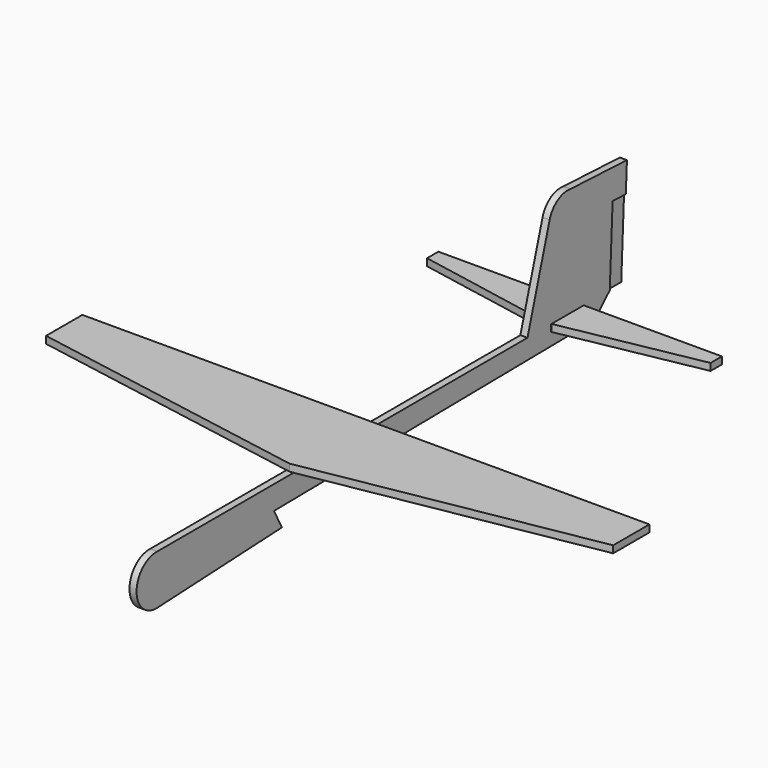
from build123d import *

# Parameters (mm, degrees)
F0_W     = 14.672339
F0_H     = 2.54
F1_DEPTH = 1.27
F4_DEPTH = 2.54
F5_DEPTH = 0.635
F8_DEPTH = 2.54


with BuildPart() as f1:
    # F0 (on Right) → F1 (new body)
    with BuildSketch(Plane.YZ):
        with BuildLine():
            Line((64.462766, 0), (-101.290224, 0))
            ThreePointArc((-101.290224, 0), (-110.614697, -8.89), (-101.290224, -17.78))
            Line((-101.290224, -17.78), (-45.523856, -15.118071))
            Line((-45.523856, -15.118071), (-49.073096, -8.463248))
            Line((-49.073096, -8.463248), (94.435051, -6.689185))
            Line((94.435051, -6.689185), (101.325884, 0))
            Line((101.325884, 0), (102.598335, 27.663734))
            Line((102.598335, 27.663734), (108.518737, 27.391413))
            Line((108.518737, 27.391413), (109.003847, 37.937972))
            Line((109.003847, 37.937972), (83.790082, 39.097731))
            ThreePointArc((83.790082, 39.097731), (77.988792, 37.886764), (74.406086, 33.165999))
            Line((74.406086, 33.165999), (64.462766, 0))
        make_face()
        with Locations((82.308821, -1.27)):
            Rectangle(F0_W, F0_H, mode=Mode.SUBTRACT)
    extrude(amount=F1_DEPTH)

    # F2: F1 across plane


with BuildPart() as f1_1:
    add(f1.part)
    add(f1.part.mirror(Plane.YZ))

    # F3 (on face) → F4 (join)
    with BuildSketch(Plane.XY):
        Polygon((101.6, -6.327709), (0, -6.327709), (-101.6, -6.327709), (-101.6, -22.567421), (0, -40.482242), (101.6, -22.567421), align=None)
    extrude(amount=F4_DEPTH)


with BuildPart() as f5:
    # F0 (on Right) → F5 (new body)
    with BuildSketch(Plane.YZ):
        Polygon((107.258812, 0), (108.518737, 27.391413), (102.598335, 27.663734), (101.325884, 0), align=None)
    extrude(amount=F5_DEPTH)


with BuildPart() as f6_1:
    # F6: instance of F5
    add(f5.part.mirror(Plane.YZ))


with BuildPart() as f8:
    # F7 (on face) → F8 (new body)
    with BuildSketch(Plane.XY.offset(-2.54)):
        Polygon((50.8, 89.644991), (1.27, 89.644991), (1.27, 75.21246), (50.8, 84.564991), align=None)
        Polygon((-1.27, 75.21246), (-1.27, 89.644991), (-50.8, 89.644991), (-50.8, 84.564991), align=None)
    extrude(amount=F8_DEPTH)


solid = Compound([f1_1.part, f5.part, f6_1.part, f8.part])
